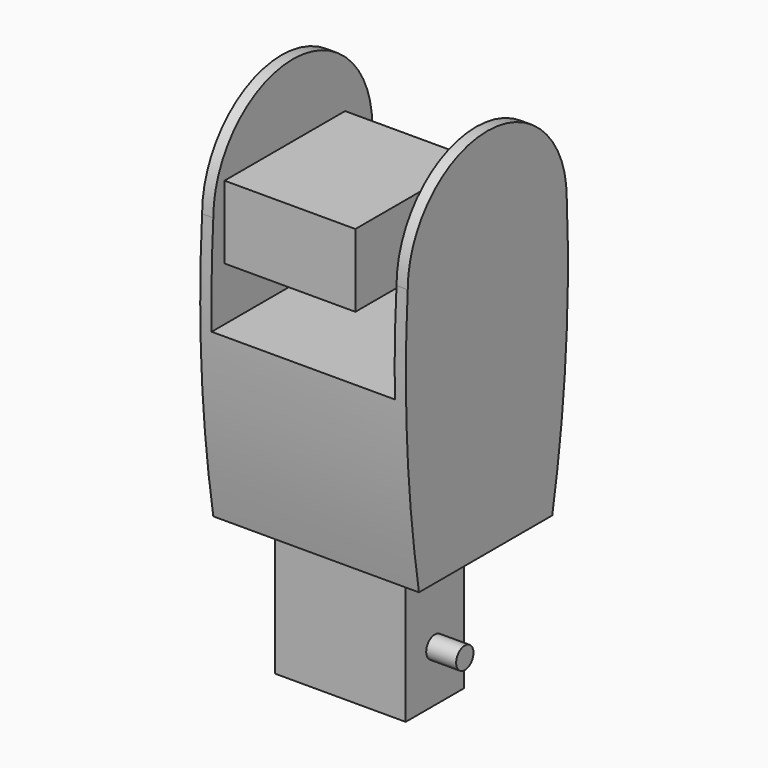
from build123d import *

# Parameters (mm, degrees)
PAD_DEPTH    = 55
SKETCH003_W  = 49
SKETCH003_H  = 53.15
POCKET_DEPTH = 100
SKETCH005_W  = 40.3
SKETCH005_H  = 19.5
SKETCH005_R  = 2.9
PAD001_DEPTH = 35
SKETCH006_R  = 2.9
PAD002_DEPTH = 43
SKETCH007_W  = 19.5
SKETCH007_H  = 40.3
SKETCH007_R  = 2.9
PAD003_DEPTH = 35
SKETCH008_R  = 2.9
PAD004_DEPTH = 43


with BuildPart() as upperlegbody:
    # Sketch → Pad (new body)
    with BuildSketch(Plane.YZ):
        with BuildLine():
            ThreePointArc((26.575, 99.999999), (0, 126.574999), (-26.575, 99.999998))
            ThreePointArc((-26.575, 99.999998), (-26.773139, 63.508395), (-22.818951, 27.231119))
            Line((-22.818951, 27.231119), (21.743508, 27.231119))
            ThreePointArc((21.743508, 27.231119), (26.276787, 63.474965), (26.575, 99.999999))
        make_face()
    extrude(amount=PAD_DEPTH)

    # Sketch003 → Pocket (cut)
    with BuildSketch(Plane(origin=(3, 50, 0), x_dir=(1, 0, 0), z_dir=(0, -1, 0))):
        with Locations((24.5, 100)):
            Rectangle(SKETCH003_W, SKETCH003_H)
    extrude(amount=POCKET_DEPTH, mode=Mode.SUBTRACT)


with BuildPart() as obj1:
    # Sketch005 → Pad001 (new body)
    with BuildSketch(Plane.YZ):
        with Locations((-6.425, 100)):
            Rectangle(SKETCH005_W, SKETCH005_H)
        with Locations((0, 100)):
            Circle(SKETCH005_R, mode=Mode.SUBTRACT)
    extrude(amount=PAD001_DEPTH)

    # Sketch006 → Pad002 (join)
    with BuildSketch(Plane.YZ):
        with Locations((0, 100)):
            Circle(SKETCH006_R)
    extrude(amount=PAD002_DEPTH)


with BuildPart() as obj1_1:
    # Body001 placement: moved
    add(obj1.part.moved(Location((6, 0, 0))))


with BuildPart() as obj2:
    # Sketch007 → Pad003 (new body)
    with BuildSketch(Plane.YZ):
        with Locations((0, 7.010211)):
            Rectangle(SKETCH007_W, SKETCH007_H)
        with Locations((0, 0.585211)):
            Circle(SKETCH007_R, mode=Mode.SUBTRACT)
    extrude(amount=PAD003_DEPTH)

    # Sketch008 → Pad004 (join)
    with BuildSketch(Plane.YZ):
        with Locations((0, 0.59)):
            Circle(SKETCH008_R)
    extrude(amount=PAD004_DEPTH)


with BuildPart() as obj2_1:
    # Body002 placement: moved
    add(obj2.part.moved(Location((6, 0, 0))))


solid = Compound([upperlegbody.part, obj1_1.part, obj2_1.part])
